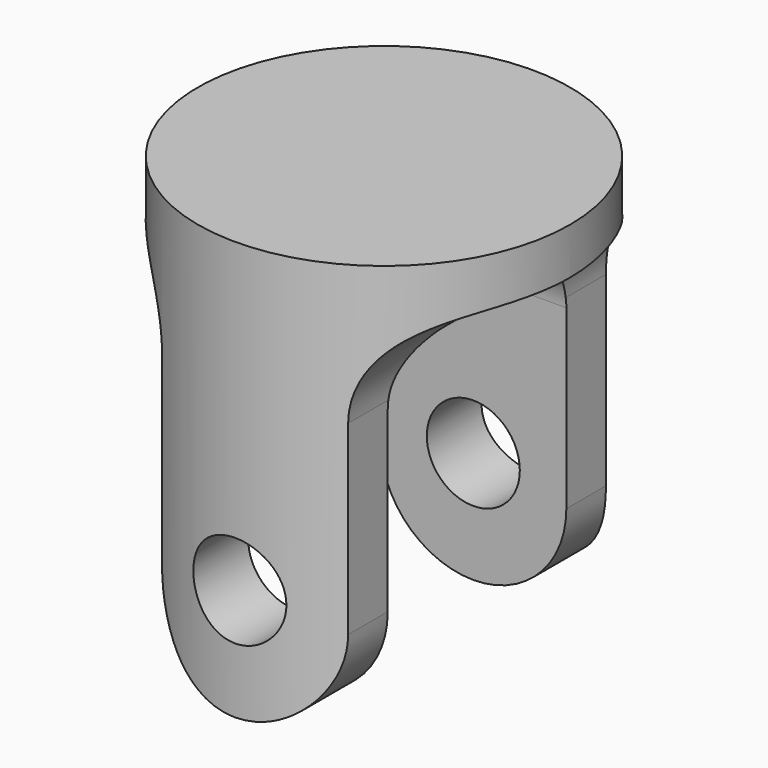
from build123d import *

# Parameters (mm, degrees)
CYLINDER_R           = 20
CYLINDER_DEPTH       = 45
POCKET_DEPTH         = 164.569323
POCKET_DEPTH_BACK    = 164.569323
POCKET001_DEPTH      = 164.569324
POCKET001_DEPTH_BACK = 164.569324
SKETCH002_R          = 5
POCKET002_DEPTH      = 20.001
POCKET002_DEPTH_BACK = 20.001


with BuildPart() as part:
    # Cylinder → Cylinder (join)
    with BuildSketch(Plane.XY):
        Circle(CYLINDER_R)
    extrude(amount=CYLINDER_DEPTH)

    # Sketch → Pocket (cut, two sides)
    with BuildSketch(Plane.XZ) as pocket_sk:
        with BuildLine():
            ThreePointArc((-10, 10), (-7.071068, 2.928932), (0, 0))
            Line((-30, 0), (0, 0))
            Line((-30, 40), (-30, 0))
            Line((-20, 40), (-30, 40))
            ThreePointArc((-10, 30), (-12.928932, 37.071068), (-20, 40))
            Line((-10, 10), (-10, 30))
        make_face()
    pocket = extrude(amount=-POCKET_DEPTH, mode=Mode.SUBTRACT) + extrude(pocket_sk.sketch, amount=POCKET_DEPTH_BACK, mode=Mode.SUBTRACT)

    # Mirrored: Pocket across Sketch V_Axis
    add(pocket.mirror(Plane(origin=(0, 0, 0), x_dir=(0, -1, 0), z_dir=(1, 0, 0))), mode=Mode.SUBTRACT)

    # Sketch001 → Pocket001 (cut, two sides)
    with BuildSketch(Plane.YZ) as pocket001_sk:
        with BuildLine():
            Line((-12, 0), (-12, 29))
            ThreePointArc((-6, 35), (-10.242641, 33.242641), (-12, 29))
            Line((-6, 35), (0, 35))
            Line((0, 35), (0, 0))
            Line((0, 0), (-12, 0))
        make_face()
    pocket001 = extrude(amount=-POCKET001_DEPTH, mode=Mode.SUBTRACT) + extrude(pocket001_sk.sketch, amount=POCKET001_DEPTH_BACK, mode=Mode.SUBTRACT)

    # Mirrored001: Pocket001 across Sketch001 V_Axis
    add(pocket001.mirror(Plane(origin=(0, 0, 0), x_dir=(1, 0, 0), z_dir=(0, 1, 0))), mode=Mode.SUBTRACT)

    # Sketch002 → Pocket002 (cut, two sides)
    with BuildSketch(Plane.XZ) as pocket002_sk:
        with Locations((0, 12)):
            Circle(SKETCH002_R)
    extrude(amount=-POCKET002_DEPTH, mode=Mode.SUBTRACT)
    extrude(pocket002_sk.sketch, amount=POCKET002_DEPTH_BACK, mode=Mode.SUBTRACT)


solid = part.part
